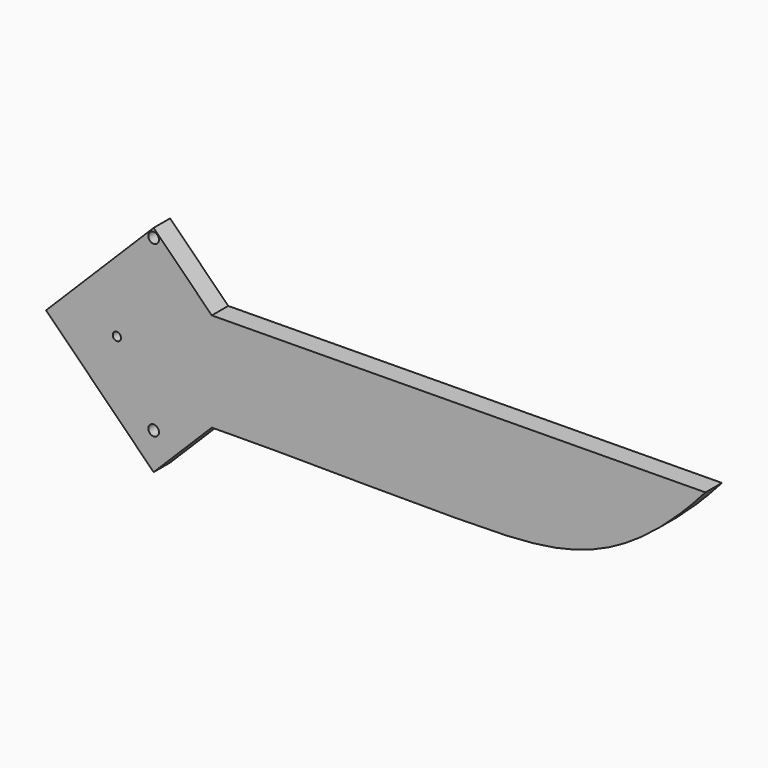
from build123d import *

# Parameters (mm, degrees)
F0_R     = 0.8211030373
F0_R_2   = 0.635
F0_R_3   = 0.8197091978
F1_DEPTH = 3.175


with BuildPart() as f1:
    # F0 (on Front) → F1 (new body)
    with BuildSketch(Plane.XZ):
        with BuildLine():
            Line((-47.1087390124, 24.0072626846), (-48.469083822, 22.6469178751))
            Line((-48.469083822, 22.6469178751), (-63.7089951335, 7.4070065636))
            Line((-63.7089951335, 7.4070065636), (-52.7819947797, -3.5199937902))
            Line((-52.7819947797, -3.5199937902), (-47.1087390124, -9.1932495575))
            Line((-47.1087390124, -9.1932495575), (-38.1284828914, -0.2129934364))
            add(Edge.make_bspline(
                [(-38.1284828914, -0.2129934364), (-26.814672436, 0), (6.2425657095, -0.8439129588), (24.9296786636, 0.8068612607), (38.0715171086, 15.7557384048)],
                knots=[0, 0, 0, 0, 0.5087461109, 1, 1, 1, 1], degree=3))
            Line((38.0715171086, 15.7557384048), (-38.1284828914, 15.0270065636))
            Line((-38.1284828914, 15.0270065636), (-47.1087390124, 24.0072626846))
        make_face()
        with Locations((-47.1087390124, -3.5199937902)):
            Circle(F0_R, mode=Mode.SUBTRACT)
        with Locations((-52.7819947797, 7.4070065636)):
            Circle(F0_R_2, mode=Mode.SUBTRACT)
        with Locations((-47.1087390124, 22.6469178751)):
            Circle(F0_R_3, mode=Mode.SUBTRACT)
    extrude(amount=F1_DEPTH)


solid = f1.part
